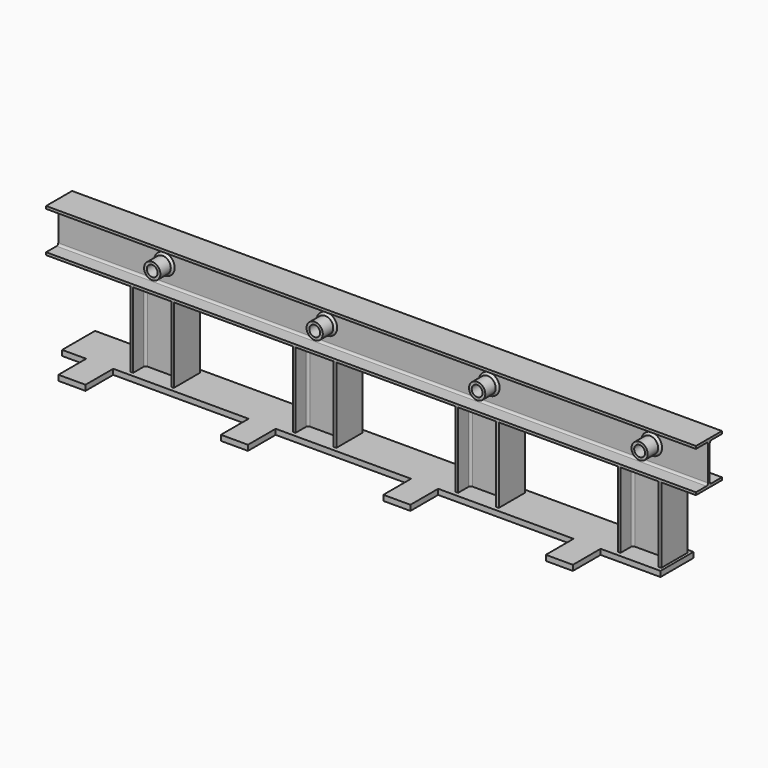
from build123d import *

# Parameters (mm, degrees)
F1_DEPTH  = 6000
F2_R      = 75
F2_R_2    = 50
F3_DEPTH  = 25
F4_DEPTH  = 150
F6_DEPTH  = 695
F7_W      = 5525
F7_H      = 380
F8_DEPTH  = 50
F9_SIZE   = 20
F10_W     = 250
F10_H     = 320
F11_DEPTH = 50


with BuildPart() as f1:
    # F0 (on Right) → F1 (new body)
    with BuildSketch(Plane.YZ):
        with BuildLine():
            Line((-150, 0), (0, 0))
            Line((0, 0), (150, 0))
            Line((150, 0), (150, 24))
            Line((150, 24), (28.5, 24))
            ThreePointArc((28.5, 24), (15.0649711575, 29.5649711575), (9.5, 43))
            Line((9.5, 43), (9.5, 357))
            ThreePointArc((9.5, 357), (15.0649711575, 370.4350288425), (28.5, 376))
            Line((28.5, 376), (150, 376))
            Line((150, 376), (150, 400))
            Line((150, 400), (0, 400))
            Line((0, 400), (-150, 400))
            Line((-150, 400), (-150, 376))
            Line((-150, 376), (-28.5, 376))
            ThreePointArc((-28.5, 376), (-15.0649711575, 370.4350288425), (-9.5, 357))
            Line((-9.5, 357), (-9.5, 43))
            ThreePointArc((-9.5, 43), (-15.0649711575, 29.5649711575), (-28.5, 24))
            Line((-28.5, 24), (-150, 24))
            Line((-150, 24), (-150, 0))
        make_face()
    extrude(amount=-F1_DEPTH)

    # F2 (on Front) → F3 (cut, symmetric)
    with BuildSketch(Plane.XZ):
        with Locations((-5020, 190)):
            Circle(F2_R)
        with Locations((-5020, 190)):
            Circle(F2_R_2, mode=Mode.SUBTRACT)
        with Locations((-3520, 190)):
            Circle(F2_R)
        with Locations((-3520, 190)):
            Circle(F2_R_2, mode=Mode.SUBTRACT)
        with Locations((-2020, 190)):
            Circle(F2_R)
        with Locations((-2020, 190)):
            Circle(F2_R_2, mode=Mode.SUBTRACT)
        with Locations((-520, 190)):
            Circle(F2_R)
        with Locations((-520, 190)):
            Circle(F2_R_2, mode=Mode.SUBTRACT)
        with Locations((-5020, 190)):
            Circle(F2_R_2)
        with Locations((-3520, 190)):
            Circle(F2_R_2)
        with Locations((-2020, 190)):
            Circle(F2_R_2)
        with Locations((-520, 190)):
            Circle(F2_R_2)
    extrude(amount=F3_DEPTH, both=True, mode=Mode.SUBTRACT)

    # F2 (on Front) → F4 (join, symmetric)
    with BuildSketch(Plane.XZ):
        with Locations((-520, 190)):
            Circle(F2_R)
        with Locations((-520, 190)):
            Circle(F2_R_2, mode=Mode.SUBTRACT)
        with Locations((-2020, 190)):
            Circle(F2_R)
        with Locations((-2020, 190)):
            Circle(F2_R_2, mode=Mode.SUBTRACT)
        with Locations((-3520, 190)):
            Circle(F2_R)
        with Locations((-3520, 190)):
            Circle(F2_R_2, mode=Mode.SUBTRACT)
        with Locations((-5020, 190)):
            Circle(F2_R)
        with Locations((-5020, 190)):
            Circle(F2_R_2, mode=Mode.SUBTRACT)
    extrude(amount=F4_DEPTH, both=True)

    # F9
    f9_edges = [f1.edges().sort_by_distance(p)[0] for p in [
        (-5095, -9.5, 190),
        (-3595, -9.5, 190),
        (-2095, -9.5, 190),
        (-595, -9.5, 190),
        (-595, 9.5, 190),
        (-2095, 9.5, 190),
        (-3595, 9.5, 190),
        (-5095, 9.5, 190),
    ]]
    chamfer(f9_edges, length=F9_SIZE)


with BuildPart() as f6:
    # F5 (on Top) → F6 (new body)
    with BuildSketch(Plane.XY):
        with BuildLine():
            Line((-320, -150), (-320, 0))
            Line((-320, 0), (-320, 150))
            Line((-320, 150), (-344, 150))
            Line((-344, 150), (-344, 28.5))
            ThreePointArc((-344, 28.5), (-349.5649711575, 15.0649711575), (-363, 9.5))
            Line((-363, 9.5), (-677, 9.5))
            ThreePointArc((-677, 9.5), (-690.4350288425, 15.0649711575), (-696, 28.5))
            Line((-696, 28.5), (-696, 150))
            Line((-696, 150), (-720, 150))
            Line((-720, 150), (-720, 0))
            Line((-720, 0), (-720, -150))
            Line((-720, -150), (-696, -150))
            Line((-696, -150), (-696, -28.5))
            ThreePointArc((-696, -28.5), (-690.4350288425, -15.0649711575), (-677, -9.5))
            Line((-677, -9.5), (-363, -9.5))
            ThreePointArc((-363, -9.5), (-349.5649711575, -15.0649711575), (-344, -28.5))
            Line((-344, -28.5), (-344, -150))
            Line((-344, -150), (-320, -150))
        make_face()
    extrude(amount=-F6_DEPTH)


with BuildPart() as f6b:
    # F5 (on Top) → F6, piece 2 (new body)
    with BuildSketch(Plane.XY):
        with BuildLine():
            Line((-1820, -150), (-1820, 0))
            Line((-1820, 0), (-1820, 150))
            Line((-1820, 150), (-1844, 150))
            Line((-1844, 150), (-1844, 28.5))
            ThreePointArc((-1844, 28.5), (-1849.5649711575, 15.0649711575), (-1863, 9.5))
            Line((-1863, 9.5), (-2177, 9.5))
            ThreePointArc((-2177, 9.5), (-2190.4350288425, 15.0649711575), (-2196, 28.5))
            Line((-2196, 28.5), (-2196, 150))
            Line((-2196, 150), (-2220, 150))
            Line((-2220, 150), (-2220, 0))
            Line((-2220, 0), (-2220, -150))
            Line((-2220, -150), (-2196, -150))
            Line((-2196, -150), (-2196, -28.5))
            ThreePointArc((-2196, -28.5), (-2190.4350288425, -15.0649711575), (-2177, -9.5))
            Line((-2177, -9.5), (-1863, -9.5))
            ThreePointArc((-1863, -9.5), (-1849.5649711575, -15.0649711575), (-1844, -28.5))
            Line((-1844, -28.5), (-1844, -150))
            Line((-1844, -150), (-1820, -150))
        make_face()
    extrude(amount=-F6_DEPTH)


with BuildPart() as f6c:
    # F5 (on Top) → F6, piece 3 (new body)
    with BuildSketch(Plane.XY):
        with BuildLine():
            Line((-3320, -150), (-3320, 0))
            Line((-3320, 0), (-3320, 150))
            Line((-3320, 150), (-3344, 150))
            Line((-3344, 150), (-3344, 28.5))
            ThreePointArc((-3344, 28.5), (-3349.5649711575, 15.0649711575), (-3363, 9.5))
            Line((-3363, 9.5), (-3677, 9.5))
            ThreePointArc((-3677, 9.5), (-3690.4350288425, 15.0649711575), (-3696, 28.5))
            Line((-3696, 28.5), (-3696, 150))
            Line((-3696, 150), (-3720, 150))
            Line((-3720, 150), (-3720, 0))
            Line((-3720, 0), (-3720, -150))
            Line((-3720, -150), (-3696, -150))
            Line((-3696, -150), (-3696, -28.5))
            ThreePointArc((-3696, -28.5), (-3690.4350288425, -15.0649711575), (-3677, -9.5))
            Line((-3677, -9.5), (-3363, -9.5))
            ThreePointArc((-3363, -9.5), (-3349.5649711575, -15.0649711575), (-3344, -28.5))
            Line((-3344, -28.5), (-3344, -150))
            Line((-3344, -150), (-3320, -150))
        make_face()
    extrude(amount=-F6_DEPTH)


with BuildPart() as f6d:
    # F5 (on Top) → F6, piece 4 (new body)
    with BuildSketch(Plane.XY):
        with BuildLine():
            Line((-4820, -150), (-4820, 0))
            Line((-4820, 0), (-4820, 150))
            Line((-4820, 150), (-4844, 150))
            Line((-4844, 150), (-4844, 28.5))
            ThreePointArc((-4844, 28.5), (-4849.5649711575, 15.0649711575), (-4863, 9.5))
            Line((-4863, 9.5), (-5177, 9.5))
            ThreePointArc((-5177, 9.5), (-5190.4350288425, 15.0649711575), (-5196, 28.5))
            Line((-5196, 28.5), (-5196, 150))
            Line((-5196, 150), (-5220, 150))
            Line((-5220, 150), (-5220, 0))
            Line((-5220, 0), (-5220, -150))
            Line((-5220, -150), (-5196, -150))
            Line((-5196, -150), (-5196, -28.5))
            ThreePointArc((-5196, -28.5), (-5190.4350288425, -15.0649711575), (-5177, -9.5))
            Line((-5177, -9.5), (-4863, -9.5))
            ThreePointArc((-4863, -9.5), (-4849.5649711575, -15.0649711575), (-4844, -28.5))
            Line((-4844, -28.5), (-4844, -150))
            Line((-4844, -150), (-4820, -150))
        make_face()
    extrude(amount=-F6_DEPTH)


with BuildPart() as f8:
    # F7 (on face) → F8 (new body)
    with BuildSketch(Plane(origin=(0, 0, -695), x_dir=(1, 0, 0), z_dir=(0, 0, -1))):
        with Locations((-3057.5, 0)):
            Rectangle(F7_W, F7_H)
    extrude(amount=F8_DEPTH)

    # F10 (on face) → F11 (join)
    with BuildSketch(Plane(origin=(0, 0, -745), x_dir=(1, 0, 0), z_dir=(0, 0, -1))):
        with Locations((-973, 350)):
            Rectangle(F10_W, F10_H)
        with Locations((-2473, 350)):
            Rectangle(F10_W, F10_H)
        with Locations((-3973, 350)):
            Rectangle(F10_W, F10_H)
        with Locations((-5473, 350)):
            Rectangle(F10_W, F10_H)
    extrude(amount=-F11_DEPTH)


solid = Compound([f1.part, f6.part, f6b.part, f6c.part, f6d.part, f8.part])
